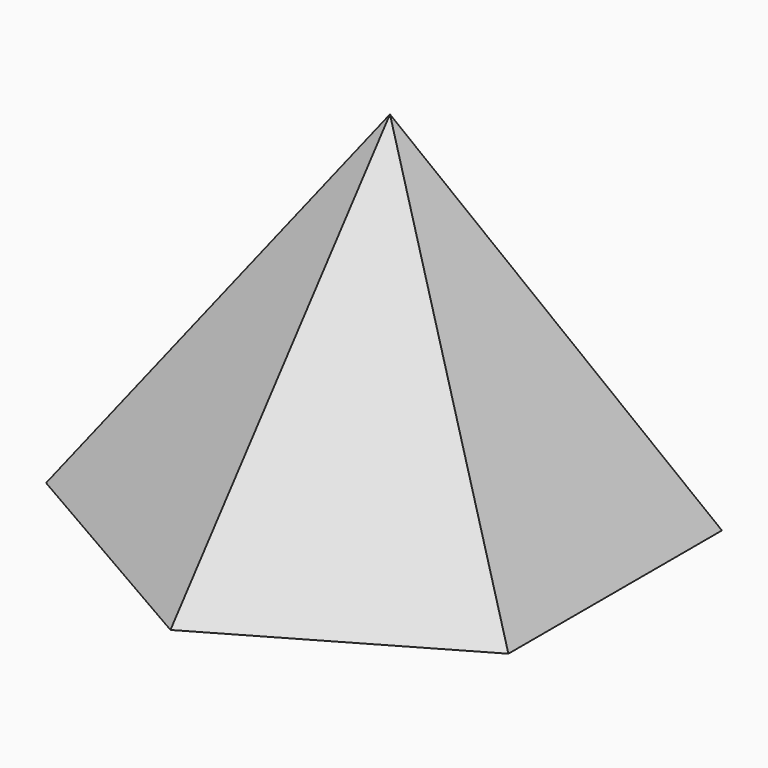
from build123d import *


with BuildPart() as f3:
    # F0 (on Top) → F3 section 0
    with BuildSketch(Plane.XY, mode=Mode.PRIVATE) as f3_s0:
        Polygon((66.855564, 38.599078), (0, 77.198155), (-66.855564, 38.599078), (-66.855564, -38.599078), (0, -77.198155), (66.855564, -38.599078), align=None)
    loft([f3_s0.sketch, Vertex(1.14754, 0.717213, 100)])


solid = f3.part
